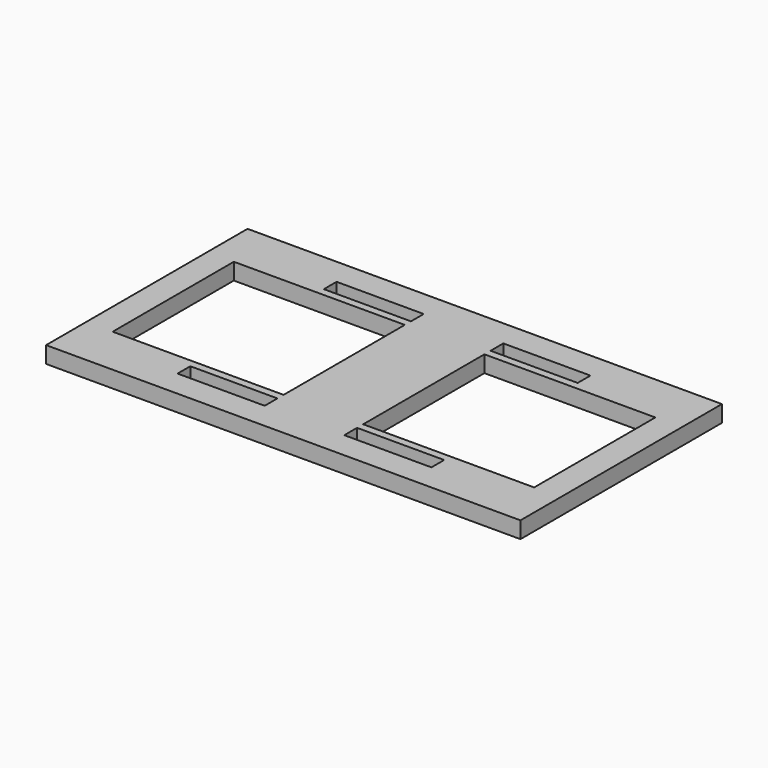
from build123d import *

# Parameters (mm, degrees)
F0_W     = 90.806918
F0_H     = 48.208
F0_W_2   = 16.677126
F0_H_2   = 3.048
F0_W_3   = 32.724298
F0_H_3   = 29
F1_DEPTH = 3.175


with BuildPart() as f1:
    # F0 (on Top) → F1 (new body)
    with BuildSketch(Plane.XY):
        Rectangle(F0_W, F0_H)
        with Locations((-15.958563, -17.5)):
            Rectangle(F0_W_2, F0_H_2, mode=Mode.SUBTRACT)
        with Locations((-23.982149, 0)):
            Rectangle(F0_W_3, F0_H_3, mode=Mode.SUBTRACT)
        with Locations((15.958563, -17.5)):
            Rectangle(F0_W_2, F0_H_2, mode=Mode.SUBTRACT)
        with Locations((23.982149, 0)):
            Rectangle(F0_W_3, F0_H_3, mode=Mode.SUBTRACT)
        with Locations((-15.958563, 17.5)):
            Rectangle(F0_W_2, F0_H_2, mode=Mode.SUBTRACT)
        with Locations((15.958563, 17.5)):
            Rectangle(F0_W_2, F0_H_2, mode=Mode.SUBTRACT)
    extrude(amount=F1_DEPTH)


solid = f1.part
